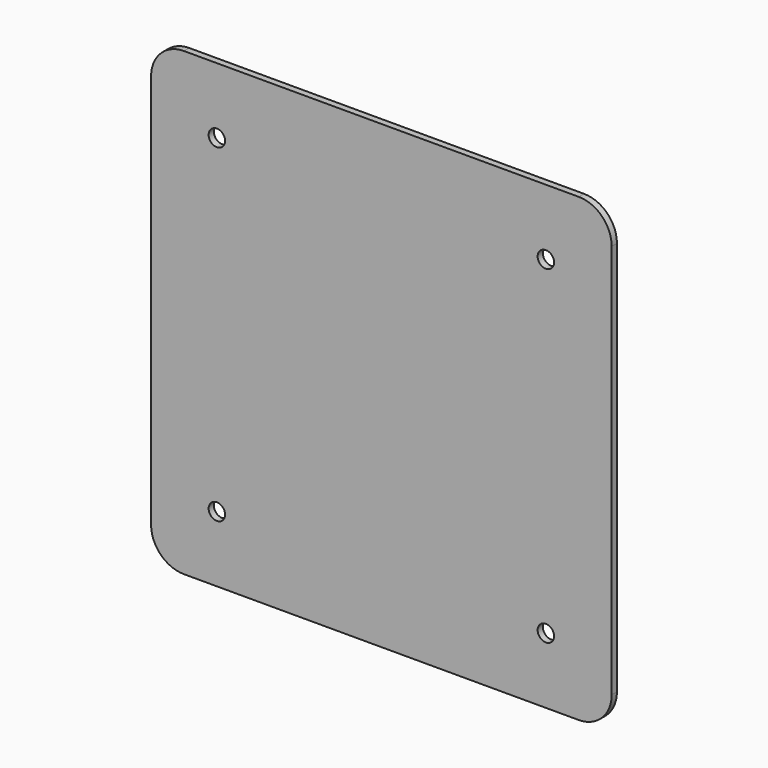
from build123d import *

# Parameters (mm, degrees)
F0_W     = 140
F0_H     = 140
F1_DEPTH = 2
F2_R     = 2.5
F3_DEPTH = 25
F4_R     = 10


with BuildPart() as f1:
    # F0 (on Front) → F1 (new body)
    with BuildSketch(Plane.XZ):
        Rectangle(F0_W, F0_H)
    extrude(amount=F1_DEPTH)

    # F2 (on face) → F3 (cut)
    with BuildSketch(Plane.XZ.offset(2)):
        with Locations((-50, 50)):
            Circle(F2_R)
        with Locations((50, 50)):
            Circle(F2_R)
        with Locations((-50, -50)):
            Circle(F2_R)
        with Locations((50, -50)):
            Circle(F2_R)
    extrude(amount=-F3_DEPTH, mode=Mode.SUBTRACT)

    # F4
    f4_edges = [f1.edges().sort_by_distance(p)[0] for p in [
        (70, -1, 70),
        (70, -1, -70),
        (-70, -1, 70),
        (-70, -1, -70),
    ]]
    fillet(f4_edges, radius=F4_R)


solid = f1.part
